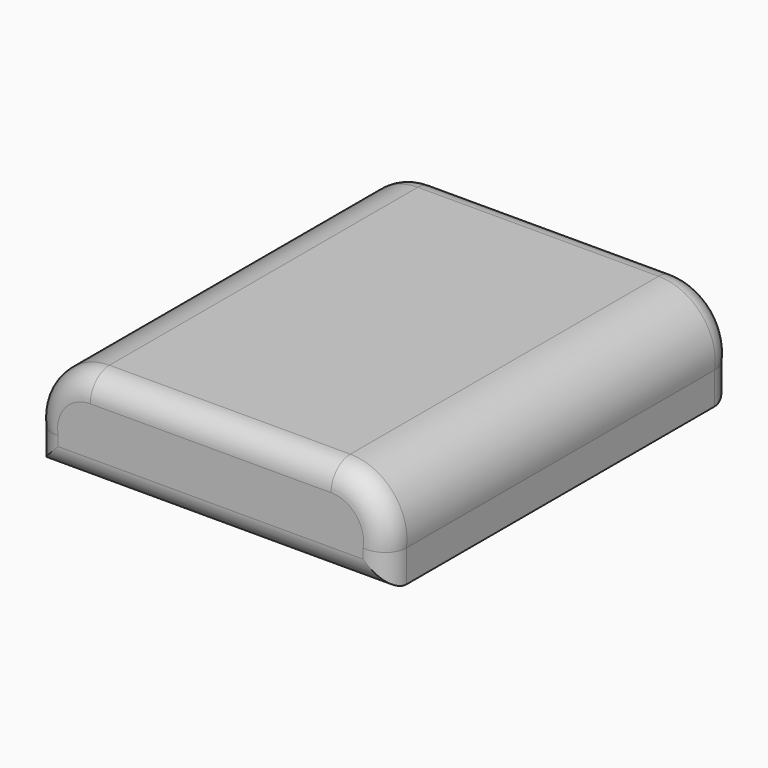
from build123d import *

# Parameters (mm, degrees)
F0_W     = 30
F0_H     = 12
F1_DEPTH = 54
F2_R     = 3
F3_R     = 3


with BuildPart() as f1:
    # F0 (on Front) → F1 (new body)
    with BuildSketch(Plane.XZ):
        Rectangle(F0_W, F0_H)
        with BuildLine():
            Line((15, 6), (15, -6))
            Line((15, -6), (22, -6))
            Line((22, -6), (22, -2))
            ThreePointArc((22, -2), (20.3150729064, 3.5881887931), (15, 6))
        make_face()
        with BuildLine():
            Line((-22, -6), (-15, -6))
            Line((-15, -6), (-15, 6))
            ThreePointArc((-15, 6), (-20.3150729064, 3.5881887931), (-22, -2))
            Line((-22, -2), (-22, -6))
        make_face()
    extrude(amount=F1_DEPTH)

    # F2
    f2_edges = [f1.edges().sort_by_distance(p)[0] for p in [
        (22, -54, -4),
        (20.315073, -54, 3.588189),
        (0, -54, 6),
        (-20.315073, -54, 3.588189),
        (-22, -54, -4),
        (0, -54, -6),
    ]]
    fillet(f2_edges, radius=F2_R)

    # F3
    f3_edges = [f1.edges().sort_by_distance(p)[0] for p in [
        (22, 0, -4),
        (20.315073, 0, 3.588189),
        (0, 0, 6),
        (-20.315073, 0, 3.588189),
        (-22, 0, -4),
        (0, 0, -6),
    ]]
    fillet(f3_edges, radius=F3_R)


solid = f1.part
